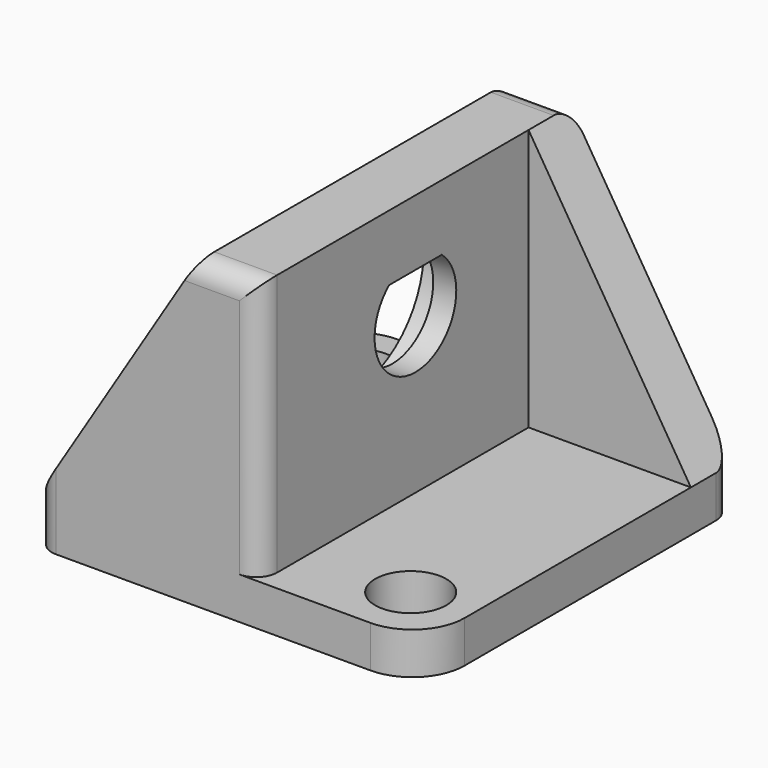
from build123d import *

# Parameters (mm, degrees)
F0_W     = 37
F0_H     = 37
F0_R     = 3.4
F1_DEPTH = 4
F3_DEPTH = 25
F5_DEPTH = 37.001
F7_DEPTH = 21.501
F8_R     = 8.5
F9_DEPTH = 3.8
F10_R    = 5
F11_R    = 2


with BuildPart() as f1:
    # F0 (on Top) → F1 (new body)
    with BuildSketch(Plane.XY):
        Rectangle(F0_W, F0_H)
        with Locations((12.75, -12.75)):
            Circle(F0_R, mode=Mode.SUBTRACT)
        with Locations((-12.75, 12.75)):
            Circle(F0_R, mode=Mode.SUBTRACT)
    extrude(amount=F1_DEPTH)

    # F2 (on face) → F3 (join)
    with BuildSketch(Plane.XY.offset(4)):
        Polygon((-18.5, -13.5), (-18.5, -18.5), (3, -18.5), (3, 13.5), (18.5, 13.5), (18.5, 18.5), (-3, 18.5), (-3, -13.5), align=None)
    extrude(amount=F3_DEPTH)

    # F4 (on face) → F5 (cut, through all)
    with BuildSketch(Plane.XZ.offset(18.5)):
        Polygon((-3, 29), (-18.5, 29), (-18.5, 4), align=None)
        Polygon((18.5, 29), (3, 29), (18.5, 4), align=None)
    extrude(amount=-F5_DEPTH, mode=Mode.SUBTRACT)

    # F6 (on face) → F7 (cut, through all)
    with BuildSketch(Plane(origin=(-3, 0, 0), x_dir=(0, -1, 0), z_dir=(-1, 0, 0))):
        with BuildLine():
            Line((3.1448370387, 22.725), (-3.1448370387, 22.725))
            ThreePointArc((-3.1448370387, 22.725), (0, 14.125), (3.1448370387, 22.725))
        make_face()
    extrude(amount=-F7_DEPTH, mode=Mode.SUBTRACT)

    # F8 (on face) → F9 (cut)
    with BuildSketch(Plane(origin=(-3, 0, 0), x_dir=(0, -1, 0), z_dir=(-1, 0, 0))):
        with Locations((0, 19)):
            Circle(F8_R)
    extrude(amount=-F9_DEPTH, mode=Mode.SUBTRACT)

    # F10
    f10_edges = [f1.edges().sort_by_distance(p)[0] for p in [
        (-18.5, 18.5, 2),
        (18.5, -18.5, 2),
    ]]
    fillet(f10_edges, radius=F10_R)

    # F11
    f11_edges = [f1.edges().sort_by_distance(p)[0] for p in [
        (0, -18.5, 29),
        (0, 18.5, 29),
        (-18.5, -18.5, 2),
        (18.5, 18.5, 2),
        (-3, 18.5, 16.5),
        (3, -18.5, 16.5),
    ]]
    fillet(f11_edges, radius=F11_R)


solid = f1.part
